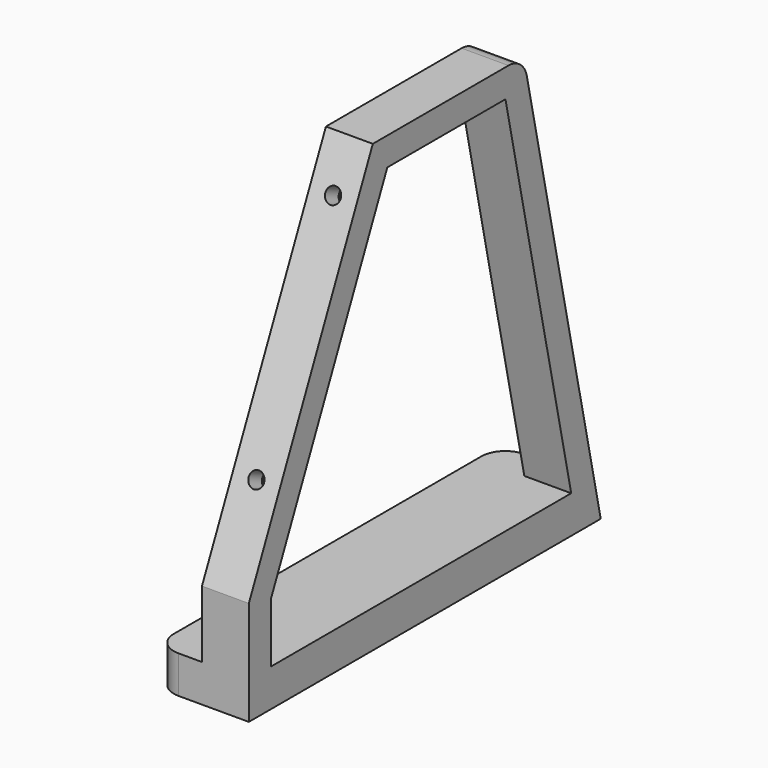
from build123d import *

# Parameters (mm, degrees)
F1_DEPTH = 10
F3_DEPTH = 10
F4_R     = 5
F6_D     = 3.3
F6_DEPTH = 10
F6_TIP   = 0.9914200214
F8_DEPTH = 2


with BuildPart() as f1:
    # F0 (on Right) → F1 (new body)
    with BuildSketch(Plane.YZ):
        Polygon((0, 22.2580076184), (0, 0), (93.8056360581, 0), (73.2522689977, 95.1130465462), (33.0475914831, 95.1130465462), align=None)
        Polygon((68.4103418893, 89.1130465462), (85.9383917163, 8), (5.9322550672, 8), (5.9322550672, 20.8114475514), (36.9143720826, 89.1130465462), align=None, mode=Mode.SUBTRACT)
    extrude(amount=F1_DEPTH)

    # F2 (on face) → F3 (join)
    with BuildSketch(Plane(origin=(0, 0, 0), x_dir=(0, -1, 0), z_dir=(-1, 0, 0))):
        Polygon((-85.9383917163, 8), (-92.0768833533, 8), (-93.8056360581, 0), (0, 0), (0, 8), (-5.9322550672, 8), align=None)
    extrude(amount=F3_DEPTH)

    # F4
    f4_edges = [f1.edges().sort_by_distance(p)[0] for p in [
        (-10, 92.94126, 4),
        (-10, 0, 4),
        (5, 73.252269, 95.113047),
    ]]
    fillet(f4_edges, radius=F4_R)

    # F6
    with Locations(Plane(origin=(0, -8.3734748609, 3.7982709305), x_dir=(1, 0, 0), z_dir=(0, -0.9106879866, 0.4130948935))):
        with Locations((5, 89.7701001437), (5, 40.2701001437)):
            Hole(F6_D / 2, depth=F6_DEPTH)
            with Locations((0, 0, -(F6_DEPTH + F6_TIP / 2))):  # 118° drill point
                Cone(0, F6_D / 2, F6_TIP, mode=Mode.SUBTRACT)

    # F7 (on face) → F8 (cut)
    with BuildSketch(Plane(origin=(0, -2.9093469413, 1.3197015692), x_dir=(-1, 0, 0), z_dir=(0, 0.9106879866, -0.4130948935))):
        Polygon((-7.75, 41.857813384), (-7.75, 38.6823869034), (-5, 37.0946736632), (-2.25, 38.6823869034), (-2.25, 41.857813384), (-5, 43.4455266242), align=None)
        Polygon((-7.75, 91.357813384), (-7.75, 88.1823869034), (-5, 86.5946736632), (-2.25, 88.1823869034), (-2.25, 91.357813384), (-5, 92.9455266242), align=None)
    extrude(amount=-F8_DEPTH, mode=Mode.SUBTRACT)


solid = f1.part
